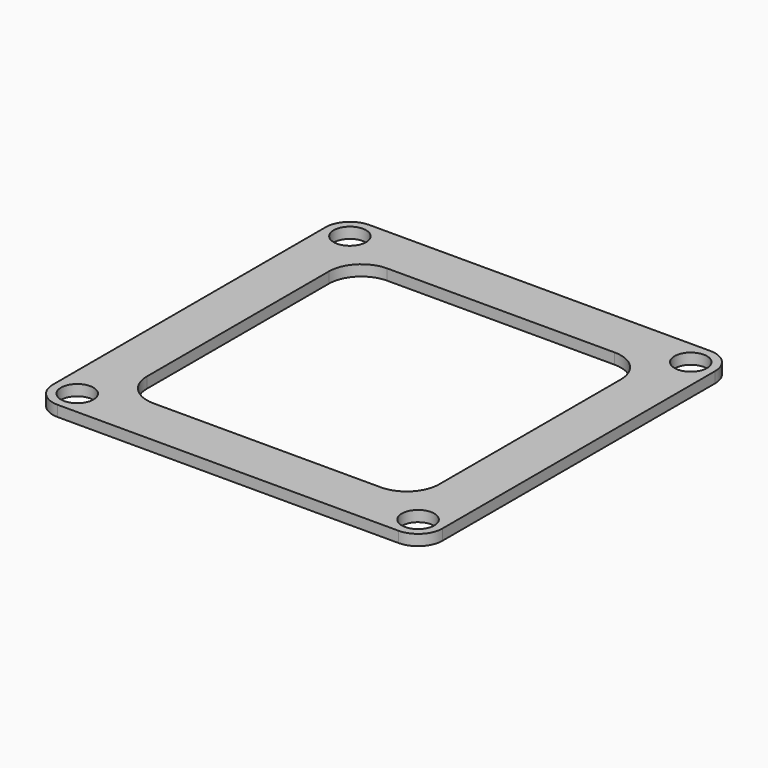
from build123d import *

# Parameters (mm, degrees)
F0_R     = 1.5
F3_DEPTH = 1


with BuildPart() as f3:
    # F0 (on Top) → F3 (new body)
    with BuildSketch(Plane.XY):
        with BuildLine():
            Line((15.75, 18), (-15.75, 18))
            ThreePointArc((-15.75, 18), (-17.34099, 17.34099), (-18, 15.75))
            Line((-18, 15.75), (-18, -15.75))
            ThreePointArc((-18, -15.75), (-17.34099, -17.34099), (-15.75, -18))
            Line((-15.75, -18), (15.75, -18))
            ThreePointArc((15.75, -18), (17.34099, -17.34099), (18, -15.75))
            Line((18, -15.75), (18, 15.75))
            ThreePointArc((18, 15.75), (17.34099, 17.34099), (15.75, 18))
        make_face()
        with Locations((-15.75, -15.75)):
            Circle(F0_R, mode=Mode.SUBTRACT)
        with Locations((15.75, -15.75)):
            Circle(F0_R, mode=Mode.SUBTRACT)
        with Locations((-15.75, 15.75)):
            Circle(F0_R, mode=Mode.SUBTRACT)
        with BuildLine():
            ThreePointArc((-10.5, -13.5), (-12.62132, -12.62132), (-13.5, -10.5))
            Line((-13.5, -10.5), (-13.5, 10.5))
            ThreePointArc((-13.5, 10.5), (-12.62132, 12.62132), (-10.5, 13.5))
            Line((-10.5, 13.5), (10.5, 13.5))
            ThreePointArc((10.5, 13.5), (12.62132, 12.62132), (13.5, 10.5))
            Line((13.5, 10.5), (13.5, -10.5))
            ThreePointArc((13.5, -10.5), (12.62132, -12.62132), (10.5, -13.5))
            Line((10.5, -13.5), (-10.5, -13.5))
        make_face(mode=Mode.SUBTRACT)
        with Locations((15.75, 15.75)):
            Circle(F0_R, mode=Mode.SUBTRACT)
    extrude(amount=F3_DEPTH)


solid = f3.part
